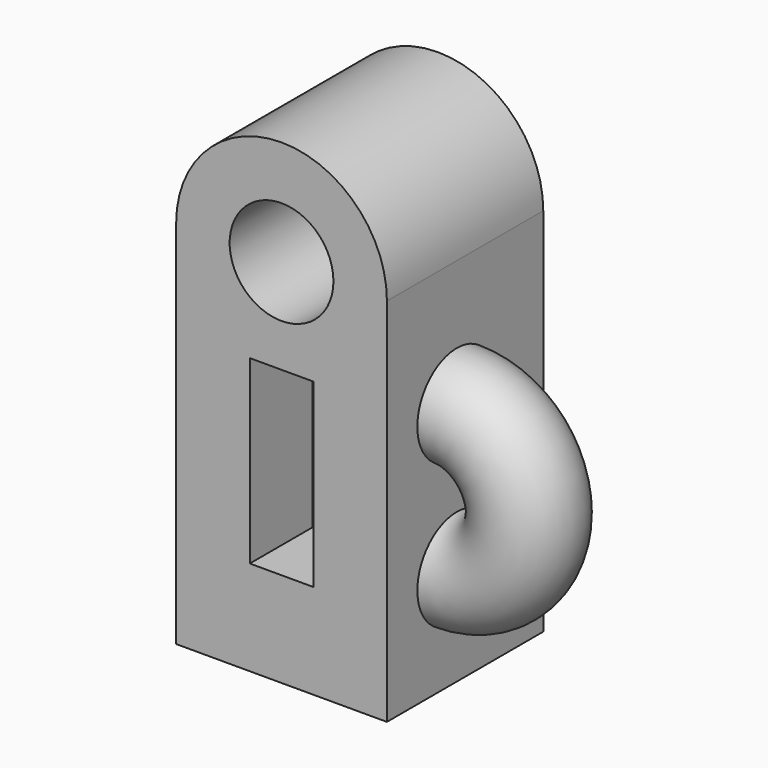
from build123d import *

# Parameters (mm, degrees)
F0_R     = 16.860447
F1_DEPTH = 63.5
F2_W     = 20.619992
F2_H     = 58.763284
F3_DEPTH = 25.4
F5_R     = 15.996609
F6_ANGLE = 180


with BuildPart() as f1:
    # F0 (on Front) → F1 (new body)
    with BuildSketch(Plane.XZ):
        with BuildLine():
            Line((-34.240753, -60.200658), (34.240753, -60.200658))
            Line((34.240753, -60.200658), (34.240753, 60.200658))
            ThreePointArc((34.240753, 60.200658), (0, 94.441411), (-34.240753, 60.200658))
            Line((-34.240753, 60.200658), (-34.240753, -60.200658))
        make_face()
        with Locations((0, 60.200658)):
            Circle(F0_R, mode=Mode.SUBTRACT)
    extrude(amount=F1_DEPTH)

    # F2 (on face) → F3 (cut)
    with BuildSketch(Plane.XZ.offset(63.5)):
        Rectangle(F2_W, F2_H)
    extrude(amount=-F3_DEPTH, mode=Mode.SUBTRACT)

    # F5 (on face) → F6 (revolve)
    with BuildSketch(Plane.YZ.offset(34.240753)):
        with Locations((-35.154082, 19.208856)):
            Circle(F5_R)
    revolve(axis=Axis((34.240753, -31.75, -4.22186), (0, 1, 0)), revolution_arc=F6_ANGLE)


solid = f1.part
